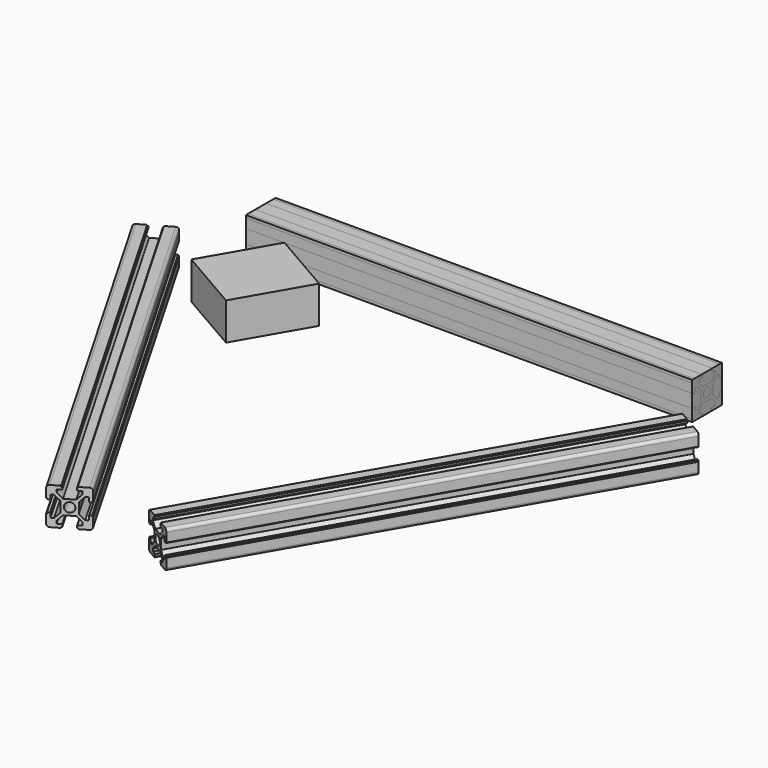
from build123d import *

# Parameters (mm, degrees)
F0_W     = 240
F0_H     = 20
F1_DEPTH = 20
F2_R     = 2.5
F3_DEPTH = 240
F5_COUNT = 3
F7_DEPTH = 20


with BuildPart() as f1:
    # F0 (on Top) → F1 (new body)
    with BuildSketch(Plane.XY):
        with Locations((0, 96.60254)):
            Rectangle(F0_W, F0_H)
    extrude(amount=F1_DEPTH)


with BuildPart() as f3:
    # F2 (on face) → F3 (new body)
    with BuildSketch(Plane(origin=(-120, 0, 0), x_dir=(0, -1, 0), z_dir=(-1, 0, 0))):
        with BuildLine():
            ThreePointArc((-86.60254, 18.5), (-87.04188, 19.56066), (-88.10254, 20))
            Line((-88.10254, 20), (-93.00254, 20))
            Line((-93.00254, 20), (-93.00254, 19.5))
            Line((-93.00254, 19.5), (-93.50254, 19.5))
            Line((-93.50254, 19.5), (-93.50254, 18.5))
            ThreePointArc((-93.50254, 18.5), (-93.414672, 18.287868), (-93.20254, 18.2))
            Line((-93.20254, 18.2), (-91.40254, 18.2))
            ThreePointArc((-91.40254, 18.2), (-91.190408, 18.112132), (-91.10254, 17.9))
            Line((-91.10254, 17.9), (-91.10254, 16.724264))
            ThreePointArc((-91.10254, 16.724264), (-91.125377, 16.609459), (-91.190408, 16.512132))
            Line((-91.190408, 16.512132), (-93.714672, 13.987868))
            ThreePointArc((-93.714672, 13.987868), (-93.811999, 13.922836), (-93.926804, 13.9))
            Line((-93.926804, 13.9), (-96.60254, 13.9))
            Line((-96.60254, 13.9), (-99.278276, 13.9))
            ThreePointArc((-99.278276, 13.9), (-99.393081, 13.922836), (-99.490408, 13.987868))
            Line((-99.490408, 13.987868), (-102.014672, 16.512132))
            ThreePointArc((-102.014672, 16.512132), (-102.079704, 16.609459), (-102.10254, 16.724264))
            Line((-102.10254, 16.724264), (-102.10254, 17.9))
            ThreePointArc((-102.10254, 17.9), (-102.014672, 18.112132), (-101.80254, 18.2))
            Line((-101.80254, 18.2), (-100.00254, 18.2))
            ThreePointArc((-100.00254, 18.2), (-99.790408, 18.287868), (-99.70254, 18.5))
            Line((-99.70254, 18.5), (-99.70254, 19.5))
            Line((-99.70254, 19.5), (-100.20254, 19.5))
            Line((-100.20254, 19.5), (-100.20254, 20))
            Line((-100.20254, 20), (-105.10254, 20))
            ThreePointArc((-105.10254, 20), (-106.163201, 19.56066), (-106.60254, 18.5))
            Line((-106.60254, 18.5), (-106.60254, 13.6))
            Line((-106.60254, 13.6), (-106.10254, 13.6))
            Line((-106.10254, 13.6), (-106.10254, 13.1))
            Line((-106.10254, 13.1), (-105.10254, 13.1))
            ThreePointArc((-105.10254, 13.1), (-104.890408, 13.187868), (-104.80254, 13.4))
            Line((-104.80254, 13.4), (-104.80254, 15.2))
            ThreePointArc((-104.80254, 15.2), (-104.714672, 15.412132), (-104.50254, 15.5))
            Line((-104.50254, 15.5), (-103.326804, 15.5))
            ThreePointArc((-103.326804, 15.5), (-103.211999, 15.477164), (-103.114672, 15.412132))
            Line((-103.114672, 15.412132), (-100.590408, 12.887868))
            ThreePointArc((-100.590408, 12.887868), (-100.525377, 12.790541), (-100.50254, 12.675736))
            Line((-100.50254, 12.675736), (-100.50254, 10))
            Line((-100.50254, 10), (-100.50254, 7.324264))
            ThreePointArc((-100.50254, 7.324264), (-100.525377, 7.209459), (-100.590408, 7.112132))
            Line((-100.590408, 7.112132), (-103.114672, 4.587868))
            ThreePointArc((-103.114672, 4.587868), (-103.211999, 4.522836), (-103.326804, 4.5))
            Line((-103.326804, 4.5), (-104.50254, 4.5))
            ThreePointArc((-104.50254, 4.5), (-104.714672, 4.587868), (-104.80254, 4.8))
            Line((-104.80254, 4.8), (-104.80254, 6.6))
            ThreePointArc((-104.80254, 6.6), (-104.890408, 6.812132), (-105.10254, 6.9))
            Line((-105.10254, 6.9), (-106.10254, 6.9))
            Line((-106.10254, 6.9), (-106.10254, 6.4))
            Line((-106.10254, 6.4), (-106.60254, 6.4))
            Line((-106.60254, 6.4), (-106.60254, 1.5))
            ThreePointArc((-106.60254, 1.5), (-106.163201, 0.43934), (-105.10254, 0))
            Line((-105.10254, 0), (-100.20254, 0))
            Line((-100.20254, 0), (-100.20254, 0.5))
            Line((-100.20254, 0.5), (-99.70254, 0.5))
            Line((-99.70254, 0.5), (-99.70254, 1.5))
            ThreePointArc((-99.70254, 1.5), (-99.790408, 1.712132), (-100.00254, 1.8))
            Line((-100.00254, 1.8), (-101.80254, 1.8))
            ThreePointArc((-101.80254, 1.8), (-102.014672, 1.887868), (-102.10254, 2.1))
            Line((-102.10254, 2.1), (-102.10254, 3.275736))
            ThreePointArc((-102.10254, 3.275736), (-102.079704, 3.390541), (-102.014672, 3.487868))
            Line((-102.014672, 3.487868), (-99.490408, 6.012132))
            ThreePointArc((-99.490408, 6.012132), (-99.393081, 6.077164), (-99.278276, 6.1))
            Line((-99.278276, 6.1), (-96.60254, 6.1))
            Line((-96.60254, 6.1), (-93.926804, 6.1))
            ThreePointArc((-93.926804, 6.1), (-93.811999, 6.077164), (-93.714672, 6.012132))
            Line((-93.714672, 6.012132), (-91.190408, 3.487868))
            ThreePointArc((-91.190408, 3.487868), (-91.125377, 3.390541), (-91.10254, 3.275736))
            Line((-91.10254, 3.275736), (-91.10254, 2.1))
            ThreePointArc((-91.10254, 2.1), (-91.190408, 1.887868), (-91.40254, 1.8))
            Line((-91.40254, 1.8), (-93.20254, 1.8))
            ThreePointArc((-93.20254, 1.8), (-93.414672, 1.712132), (-93.50254, 1.5))
            Line((-93.50254, 1.5), (-93.50254, 0.5))
            Line((-93.50254, 0.5), (-93.00254, 0.5))
            Line((-93.00254, 0.5), (-93.00254, 0))
            Line((-93.00254, 0), (-88.10254, 0))
            ThreePointArc((-88.10254, 0), (-87.04188, 0.43934), (-86.60254, 1.5))
            Line((-86.60254, 1.5), (-86.60254, 6.4))
            Line((-86.60254, 6.4), (-87.10254, 6.4))
            Line((-87.10254, 6.4), (-87.10254, 6.9))
            Line((-87.10254, 6.9), (-88.10254, 6.9))
            ThreePointArc((-88.10254, 6.9), (-88.314672, 6.812132), (-88.40254, 6.6))
            Line((-88.40254, 6.6), (-88.40254, 4.8))
            ThreePointArc((-88.40254, 4.8), (-88.490408, 4.587868), (-88.70254, 4.5))
            Line((-88.70254, 4.5), (-89.878276, 4.5))
            ThreePointArc((-89.878276, 4.5), (-89.993081, 4.522836), (-90.090408, 4.587868))
            Line((-90.090408, 4.587868), (-92.614672, 7.112132))
            ThreePointArc((-92.614672, 7.112132), (-92.679704, 7.209459), (-92.70254, 7.324264))
            Line((-92.70254, 7.324264), (-92.70254, 10))
            Line((-92.70254, 10), (-92.70254, 12.675736))
            ThreePointArc((-92.70254, 12.675736), (-92.679704, 12.790541), (-92.614672, 12.887868))
            Line((-92.614672, 12.887868), (-90.090408, 15.412132))
            ThreePointArc((-90.090408, 15.412132), (-89.993081, 15.477164), (-89.878276, 15.5))
            Line((-89.878276, 15.5), (-88.70254, 15.5))
            ThreePointArc((-88.70254, 15.5), (-88.490408, 15.412132), (-88.40254, 15.2))
            Line((-88.40254, 15.2), (-88.40254, 13.4))
            ThreePointArc((-88.40254, 13.4), (-88.314672, 13.187868), (-88.10254, 13.1))
            Line((-88.10254, 13.1), (-87.10254, 13.1))
            Line((-87.10254, 13.1), (-87.10254, 13.6))
            Line((-87.10254, 13.6), (-86.60254, 13.6))
            Line((-86.60254, 13.6), (-86.60254, 18.5))
        make_face()
        with Locations((-96.60254, 10)):
            Circle(F2_R, mode=Mode.SUBTRACT)
    extrude(amount=-F3_DEPTH)


with BuildPart() as f5_1:
    # F5: instance of F3
    add(f3.part.rotate(Axis((0, 0, 23.667108), (0, 0, 1)), 1 * 360 / F5_COUNT))


with BuildPart() as f5_2:
    # F5: instance of F3
    add(f3.part.rotate(Axis((0, 0, 23.667108), (0, 0, 1)), 2 * 360 / F5_COUNT))


with BuildPart() as f7:
    # F6 (on Top) → F7 (new body, through all)
    with BuildSketch(Plane.XY):
        Polygon((-112.641016, 40.78461), (-78, 20.78461), (-57, 57.157677), (-91.641016, 77.157677), align=None)
    extrude(amount=F7_DEPTH)


solid = Compound([f1.part, f3.part, f5_1.part, f5_2.part, f7.part])
